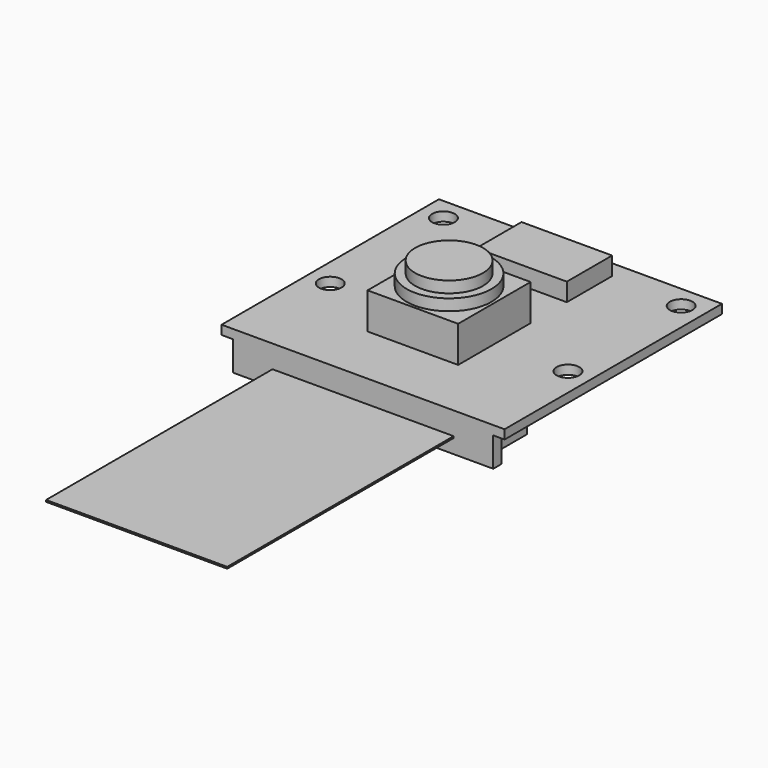
from build123d import *

# Parameters (mm, degrees)
F0_W      = 25
F0_H      = 24
F1_DEPTH  = 0.8
F2_W      = 8
F2_H      = 8
F3_DEPTH  = 3.2
F4_R      = 3.75
F5_DEPTH  = 1
F6_R      = 3
F7_DEPTH  = 1
F9_D      = 2
F10_W     = 8
F10_H     = 5
F11_DEPTH = 1.6
F13_DEPTH = 2.6
F14_W     = 16
F14_H     = 0.15
F15_DEPTH = 25


with BuildPart() as f1:
    # F0 (on Top) → F1 (new body)
    with BuildSketch(Plane.XY):
        with Locations((0, 2.5)):
            Rectangle(F0_W, F0_H)
    extrude(amount=-F1_DEPTH)

    # F2 (on face) → F3 (join)
    with BuildSketch(Plane.XY):
        Rectangle(F2_W, F2_H)
    extrude(amount=F3_DEPTH)

    # F4 (on face) → F5 (join)
    with BuildSketch(Plane.XY.offset(3.2)):
        Circle(F4_R)
    extrude(amount=F5_DEPTH)

    # F6 (on face) → F7 (join)
    with BuildSketch(Plane.XY.offset(4.2)):
        Circle(F6_R)
    extrude(amount=F7_DEPTH)

    # F9 (through all)
    with Locations(Plane.XY):
        with Locations((-10.5, 12.5), (10.5, 12.5), (10.5, 0), (-10.5, 0)):
            Hole(F9_D / 2)

    # F10 (on face) → F11 (join)
    with BuildSketch(Plane.XY):
        with Locations((0, 10.5)):
            Rectangle(F10_W, F10_H)
    extrude(amount=F11_DEPTH)

    # F12 (on face) → F13 (join)
    with BuildSketch(Plane(origin=(0, 0, -0.8), x_dir=(1, 0, 0), z_dir=(0, 0, -1))):
        Polygon((11.5, 9.5), (-11.5, 9.5), (-11.5, 8.6), (-10.1, 8.6), (-10.1, 4), (10.1, 4), (10.1, 8.6), (11.5, 8.6), align=None)
    extrude(amount=F13_DEPTH)

    # F14 (on face) → F15 (join)
    with BuildSketch(Plane.XZ.offset(9.5)):
        with Locations((0, -2.075)):
            Rectangle(F14_W, F14_H)
    extrude(amount=F15_DEPTH)


solid = f1.part
